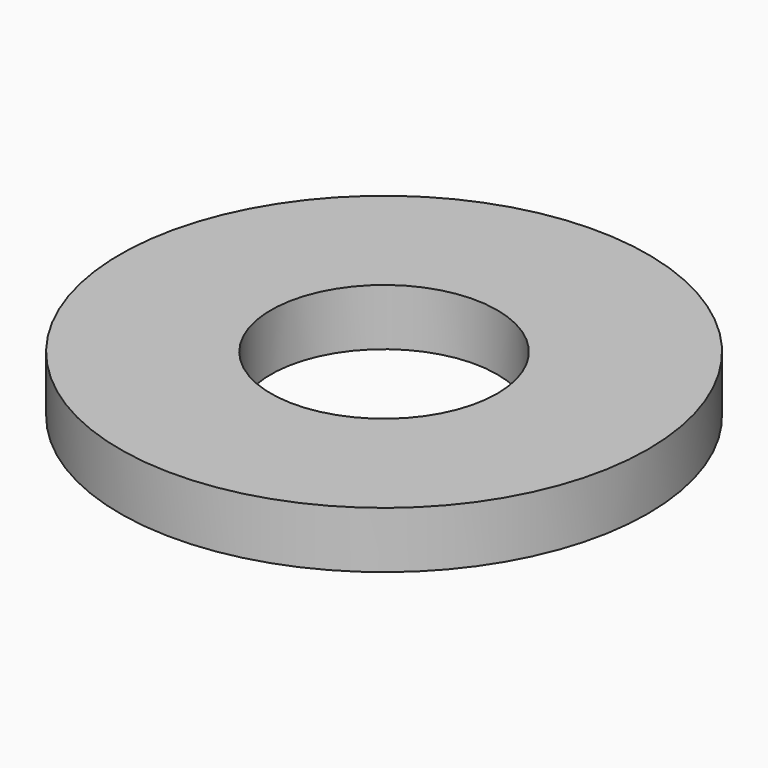
from build123d import *

# Parameters (mm, degrees)
CYLINDER012_R     = 1.5
CYLINDER012_DEPTH = 0.75
CYLINDER009_R     = 3.5
CYLINDER009_DEPTH = 0.75


with BuildPart() as cylinder012:
    # Cylinder012 → Cylinder012 (new body)
    with BuildSketch(Plane(origin=(-9.92, -1.8, 19), x_dir=(1, 0, 0), z_dir=(0, 0, 1))):
        Circle(CYLINDER012_R)
    extrude(amount=CYLINDER012_DEPTH)


with BuildPart() as cut008002005004:
    # Cylinder009 → Cylinder009 (new body)
    with BuildSketch(Plane(origin=(-9.92, -1.8, 19), x_dir=(1, 0, 0), z_dir=(0, 0, 1))):
        Circle(CYLINDER009_R)
    extrude(amount=CYLINDER009_DEPTH)

    # Cut008002005004: cut Cylinder012
    add(cylinder012.part, mode=Mode.SUBTRACT)


solid = cut008002005004.part
